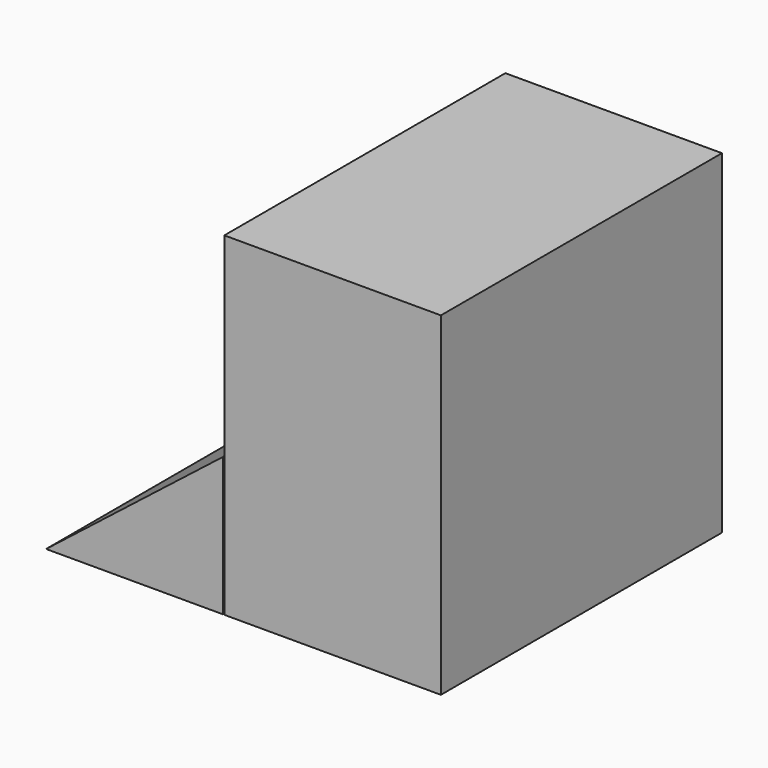
from build123d import *

# Parameters (mm, degrees)
F0_W     = 31.316563
F0_H     = 48.311528
F1_DEPTH = 50.8
F3_DEPTH = 50.8


with BuildPart() as f1:
    # F0 (on Front) → F1 (new body)
    with BuildSketch(Plane.XZ):
        with Locations((-15.658281, 24.155764)):
            Rectangle(F0_W, F0_H)
    extrude(amount=F1_DEPTH)


with BuildPart() as f3:
    # F2 (on Front) → F3 (new body)
    with BuildSketch(Plane.XZ):
        Polygon((-31.507518, 20.050241), (-57.095442, 0), (-31.507518, 0), align=None)
    extrude(amount=F3_DEPTH)


solid = Compound([f1.part, f3.part])
